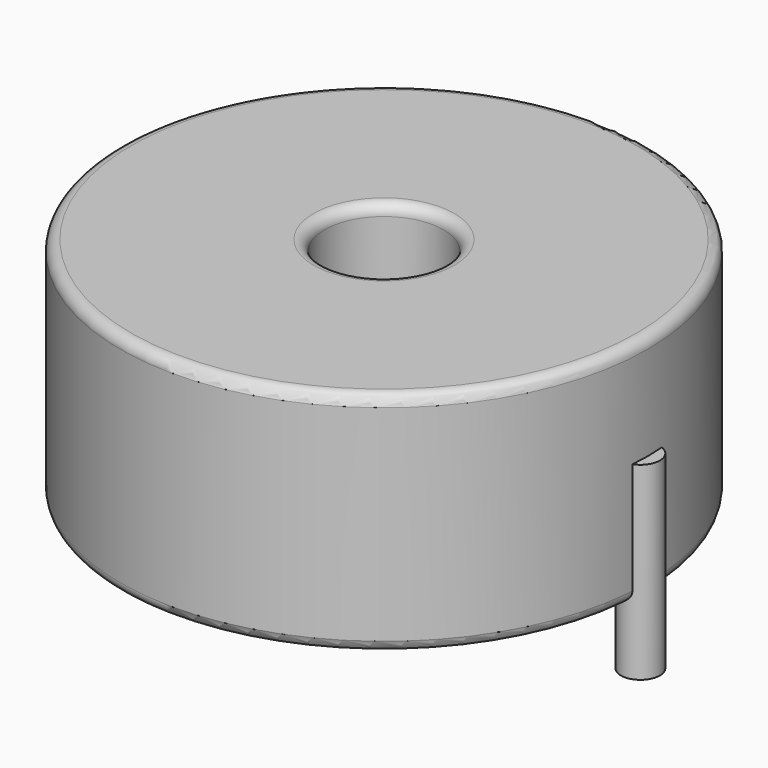
from build123d import *

# Parameters (mm, degrees)
SKETCH001_R       = 0.9
PAD001_DEPTH      = 5.25
PAD001_DEPTH_BACK = 3.5
SKETCH_R          = 12.2
SKETCH_R_2        = 2.75
PAD_DEPTH         = 10.5
FILLET_R          = 0.5


with BuildPart() as pad001:
    # Sketch001 → Pad001 (new body, two sides)
    with BuildSketch(Plane.XY.offset(0.5)) as pad001_sk:
        Circle(SKETCH001_R)
        with Locations((23.7, 0)):
            Circle(SKETCH001_R)
    extrude(amount=PAD001_DEPTH)
    extrude(pad001_sk.sketch, amount=-PAD001_DEPTH_BACK)


with BuildPart() as fillet_body:
    # Sketch → Pad (new body)
    with BuildSketch(Plane.XY.offset(0.1)):
        with Locations((11.85, 0)):
            Circle(SKETCH_R)
        with Locations((11.85, 0)):
            Circle(SKETCH_R_2, mode=Mode.SUBTRACT)
    extrude(amount=PAD_DEPTH)

    # Fillet
    fillet_edges = [fillet_body.edges().sort_by_distance(p)[0] for p in [
        (9.1, 0, 10.6),
        (-0.35, 0, 10.6),
        (-0.35, 0, 0.1),
    ]]
    fillet(fillet_edges, radius=FILLET_R)


solid = Compound([pad001.part, fillet_body.part])
